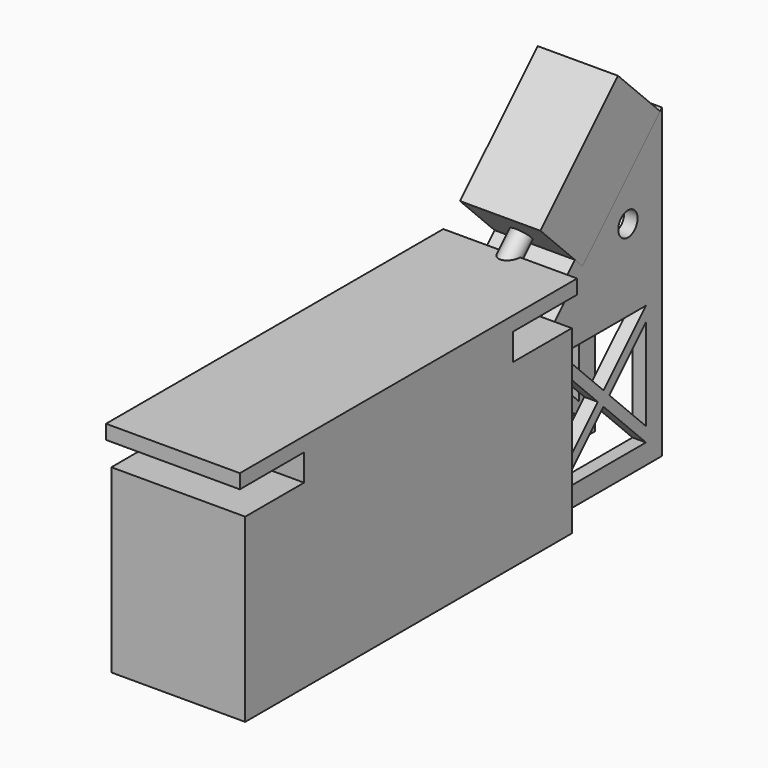
from build123d import *

# Parameters (mm, degrees)
PAD_DEPTH           = 20
BOX_W               = 20.5
BOX_H               = 12
BOX_DEPTH           = 11.13
BOX_ROLL_ANGLE      = -1.4e-05
BOX_PITCH_ANGLE     = -45.000049
BOX_PLACEMENT_ANGLE = 90.000034
SKETCH001_R         = 1.5
PAD001_DEPTH        = 4.7
SKETCH002_R         = 1.8
PAD002_DEPTH        = 2
SKETCH003_R         = 1.8
POCKET_DEPTH        = 3.001
SKETCH004_W         = 2
SKETCH004_H         = 15
PAD003_DEPTH        = 8
SKETCH005_W         = 4
SKETCH005_H         = 5
POCKET001_DEPTH     = 32.42131
SKETCH006_R         = 2
POCKET002_DEPTH     = 2.001


with BuildPart() as pad:
    # Sketch → Pad (new body)
    with BuildSketch(Plane.YZ):
        Polygon((-61, 0), (0, 0), (0, 27), (-11, 27), (-11, 31), (1, 31), (1, 33.13), (-62, 33.13), (-62, 31), (-50, 31), (-50, 27), (-61, 27), align=None)
    extrude(amount=PAD_DEPTH)


with BuildPart() as pad001:
    # Box → Box (new body)
    with BuildSketch(Plane.XY):
        with Locations((10.25, 6)):
            Rectangle(BOX_W, BOX_H)
    extrude(amount=BOX_DEPTH)


with BuildPart() as pad001_1:
    # Box roll: moved
    add(pad001.part.rotate(Axis((0, 0, 0), (1, 0, 0)), BOX_ROLL_ANGLE))


with BuildPart() as pad001_2:
    # Box pitch: moved
    add(pad001_1.part.rotate(Axis((0, 0, 0), (0, 1, 0)), BOX_PITCH_ANGLE))


with BuildPart() as pad001_3:
    # Box placement: moved
    add(pad001_2.part.moved(Location((16, 7, 31))).rotate(Axis((16, 7, 31), (0, 0, 1)), BOX_PLACEMENT_ANGLE))

    # Sketch001 → Pad001 (new body)
    with BuildSketch(Plane(origin=(16, 7, 31), x_dir=(1, 0, 0), z_dir=(0, -0.707106, -0.707107))):
        with Locations((-6, 5.565)):
            Circle(SKETCH001_R)
    extrude(amount=PAD001_DEPTH)


with BuildPart() as pocket:
    # Sketch002 → Pad002 (new body)
    with BuildSketch(Plane.YZ.offset(4)):
        Polygon((21.849242, 0), (0, 0), (0, 24), (5.585786, 29.585786), (4.171573, 31), (5.585786, 32.414214), (7, 31), (21.849242, 45.849242), align=None)
        with Locations((15.485281, 33.12132)):
            Circle(SKETCH002_R, mode=Mode.SUBTRACT)
        Polygon((3, 18.849242), (9.849242, 12), (3, 5.150758), align=None, mode=Mode.SUBTRACT)
        Polygon((18.849242, 18.849242), (12, 12), (18.849242, 5.150758), align=None, mode=Mode.SUBTRACT)
        Polygon((3, 21), (18.849242, 21), (10.924621, 13.075379), align=None, mode=Mode.SUBTRACT)
        Polygon((10.924621, 10.924621), (3, 3), (18.849242, 3), align=None, mode=Mode.SUBTRACT)
    extrude(amount=PAD002_DEPTH)

    # Sketch003 → Pocket (cut, through all)
    with BuildSketch(Plane(origin=(4, 0, 3), x_dir=(0, -1, 0), z_dir=(0, 0, 1))):
        with Locations((-15, 7)):
            Circle(SKETCH003_R)
    extrude(amount=-POCKET_DEPTH, mode=Mode.SUBTRACT)


with BuildPart() as clone_of_pocket:
    # Clone base: copy of Pocket
    add(pocket.part)


with BuildPart() as clone_of_pocket_1:
    # Clone placement: moved
    add(clone_of_pocket.part.moved(Location((10, 0, 0))))


with BuildPart() as fusion:
    # Pad003 base: copy of Pocket
    add(pocket.part)

    # Sketch004 → Pad003 (new body)
    with BuildSketch(Plane.YZ.offset(6)):
        Polygon((7, 31), (5.585786, 32.414214), (4.171573, 31), (7, 28.171573), (16.192388, 37.363961), (14.778175, 38.778175), align=None)
        with Locations((1, 7.5)):
            Rectangle(SKETCH004_W, SKETCH004_H)
    extrude(amount=PAD003_DEPTH)

    # Sketch005 → Pocket001 (cut, through all)
    with BuildSketch(Plane(origin=(4, -12, 12), x_dir=(0, -0.707107, -0.707107), z_dir=(0, -0.707107, 0.707107))):
        with Locations((-28.870058, 6)):
            Rectangle(SKETCH005_W, SKETCH005_H)
    extrude(amount=-POCKET001_DEPTH, mode=Mode.SUBTRACT)

    # Sketch006 → Pocket002 (cut, through all)
    with BuildSketch(Plane(origin=(4, 2, 0), x_dir=(0, 0, 1), z_dir=(0, 1, 0))):
        with Locations((10, 6)):
            Circle(SKETCH006_R)
    extrude(amount=-POCKET002_DEPTH, mode=Mode.SUBTRACT)

    # Fusion: union Clone of Pocket
    add(clone_of_pocket_1.part)


solid = Compound([pad.part, pad001_3.part, fusion.part])
